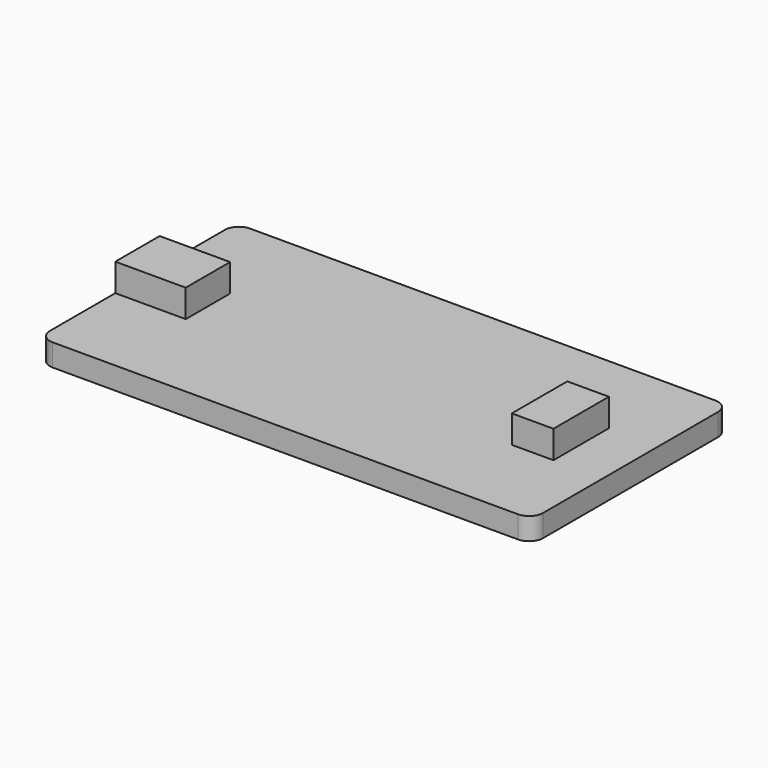
from build123d import *

# Parameters (mm, degrees)
SKETCH_W      = 35.56
SKETCH_H      = 17.78
PAD_DEPTH     = 1.6
FILLET_R      = 1
SKETCH001_W   = 5.08
SKETCH001_H   = 4
SKETCH001_W_2 = 3
SKETCH001_H_2 = 5
PAD001_DEPTH  = 2


with BuildPart() as part:
    # Sketch → Pad (new body)
    with BuildSketch(Plane.XY):
        with Locations((17.78, 0)):
            Rectangle(SKETCH_W, SKETCH_H)
    extrude(amount=PAD_DEPTH)

    # Fillet
    fillet_edges = [part.edges().sort_by_distance(p)[0] for p in [
        (0, -8.89, 0.8),
        (0, 8.89, 0.8),
        (35.56, -8.89, 0.8),
        (35.56, 8.89, 0.8),
    ]]
    fillet(fillet_edges, radius=FILLET_R)

    # Sketch001 (on Face5 of Fillet) → Pad001 (join)
    with BuildSketch(Plane.XY.offset(1.6)):
        with Locations((2.54, 0)):
            Rectangle(SKETCH001_W, SKETCH001_H)
        with Locations((30.5, 0)):
            Rectangle(SKETCH001_W_2, SKETCH001_H_2)
    extrude(amount=PAD001_DEPTH)


solid = part.part
